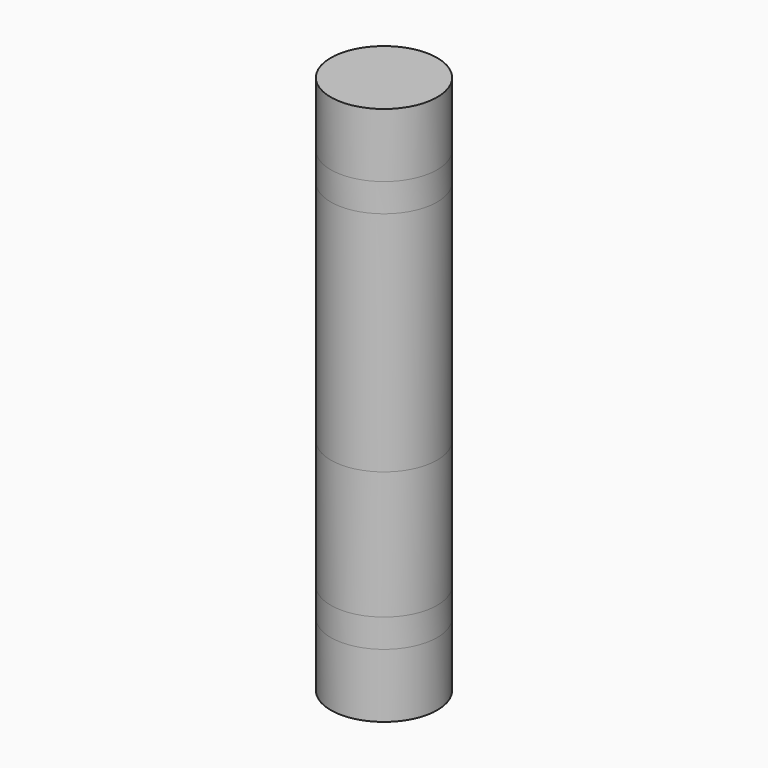
from build123d import *

# Parameters (mm, degrees)
PAD_DEPTH    = 14
PAD001_DEPTH = 36
PAD002_DEPTH = 36
PAD003_DEPTH = 8
PAD004_DEPTH = 8
PAD005_DEPTH = 18
PAD006_DEPTH = 18


with BuildPart() as part:
    # Sketch → Pad (new body, symmetric)
    with BuildSketch(Plane.XY):
        with BuildLine():
            ThreePointArc((0, -15), (15, 0), (0, 15))
            ThreePointArc((0, 15), (-15, 0), (0, -15))
        make_face()
    extrude(amount=PAD_DEPTH, both=True)

    # Pad Face4 → Pad001 (add)
    with BuildSketch(Plane(origin=(0, 0, 14), x_dir=(0, 1, 0), z_dir=(0, 0, 1))):
        with BuildLine():
            ThreePointArc((-15, 0), (0, -15), (15, 0))
            ThreePointArc((15, 0), (0, 15), (-15, 0))
        make_face()
    extrude(amount=PAD001_DEPTH)

    # Pad001 Face3 → Pad002 (add)
    with BuildSketch(Plane(origin=(0, 0, -14), x_dir=(0, -1, 0), z_dir=(0, 0, -1))):
        with BuildLine():
            ThreePointArc((-15, 0), (0, -15), (15, 0))
            ThreePointArc((15, 0), (0, 15), (-15, 0))
        make_face()
    extrude(amount=PAD002_DEPTH)

    # Pad002 Face8 → Pad003 (add)
    with BuildSketch(Plane(origin=(0, 0, 50), x_dir=(0, 1, 0), z_dir=(0, 0, 1))):
        with BuildLine():
            ThreePointArc((-15, 0), (0, -15), (15, 0))
            ThreePointArc((15, 0), (0, 15), (-15, 0))
        make_face()
    extrude(amount=PAD003_DEPTH)

    # Pad003 Face7 → Pad004 (add)
    with BuildSketch(Plane(origin=(0, 0, -50), x_dir=(0, -1, 0), z_dir=(0, 0, -1))):
        with BuildLine():
            ThreePointArc((-15, 0), (0, -15), (15, 0))
            ThreePointArc((15, 0), (0, 15), (-15, 0))
        make_face()
    extrude(amount=PAD004_DEPTH)

    # Pad004 Face11 → Pad005 (add)
    with BuildSketch(Plane(origin=(0, 0, -58), x_dir=(0, -1, 0), z_dir=(0, 0, -1))):
        with BuildLine():
            ThreePointArc((-15, 0), (0, -15), (15, 0))
            ThreePointArc((15, 0), (0, 15), (-15, 0))
        make_face()
    extrude(amount=PAD005_DEPTH)

    # Pad005 Face12 → Pad006 (add)
    with BuildSketch(Plane(origin=(0, 0, 58), x_dir=(0, 1, 0), z_dir=(0, 0, 1))):
        with BuildLine():
            ThreePointArc((-15, 0), (0, -15), (15, 0))
            ThreePointArc((15, 0), (0, 15), (-15, 0))
        make_face()
    extrude(amount=PAD006_DEPTH)


solid = part.part
